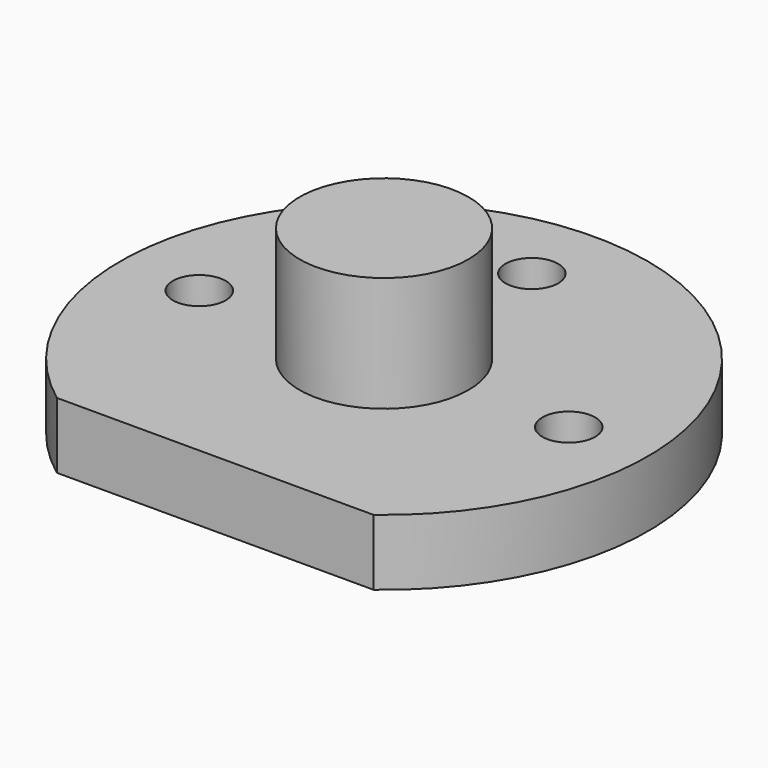
from build123d import *

# Parameters (mm, degrees)
F0_R      = 63.5
F1_DEPTH  = 15.875
F3_DEPTH  = 25.4
F6_R      = 6.35
F7_DEPTH  = 25.4
F8_R      = 20.32
F9_DEPTH  = 27.94
F11_R     = 20.32
F12_DEPTH = 27.686


with BuildPart() as f1:
    # F0 (on Top) → F1 (new body)
    with BuildSketch(Plane.XY):
        Circle(F0_R)
    extrude(amount=F1_DEPTH)

    # F2 (on face) → F3 (cut)
    with BuildSketch(Plane.XY.offset(15.875)):
        with BuildLine():
            Line((38.1, -50.8), (-38.1, -50.8))
            ThreePointArc((-38.1, -50.8), (0, -63.5), (38.1, -50.8))
        make_face()
    extrude(amount=-F3_DEPTH, mode=Mode.SUBTRACT)


with BuildPart() as f4_1:
    # F4: copy of F1
    add(f1.part)


with BuildPart() as f5_1:
    # F5: copy of F1
    add(f1.part)


with BuildPart() as f7_tool:
    # F6 (on face) → F7 (new body)
    with BuildSketch(Plane.XY.offset(15.875)):
        with Locations((44.45, 0)):
            Circle(F6_R)
        with Locations((0, 44.45)):
            Circle(F6_R)
        with Locations((-44.45, 0)):
            Circle(F6_R)
    extrude(amount=-F7_DEPTH)


with BuildPart() as f1_1:
    add(f1.part)

    # F7: cut by f7_tool
    add(f7_tool.part, mode=Mode.SUBTRACT)

    # F11 (on face) → F12 (join)
    with BuildSketch(Plane.XY.offset(15.875)):
        Circle(F11_R)
    extrude(amount=F12_DEPTH)


with BuildPart() as f4_1_1:
    add(f4_1.part)

    # F7: cut by f7_tool
    add(f7_tool.part, mode=Mode.SUBTRACT)


with BuildPart() as f5_1_1:
    add(f5_1.part)

    # F7: cut by f7_tool
    add(f7_tool.part, mode=Mode.SUBTRACT)


with BuildPart() as f9:
    # F8 (on face) → F9 (new body)
    with BuildSketch(Plane.XY.offset(15.875)):
        with Locations((0, 3.125413)):
            Circle(F8_R)
    extrude(amount=F9_DEPTH)


solid = f1_1.part
